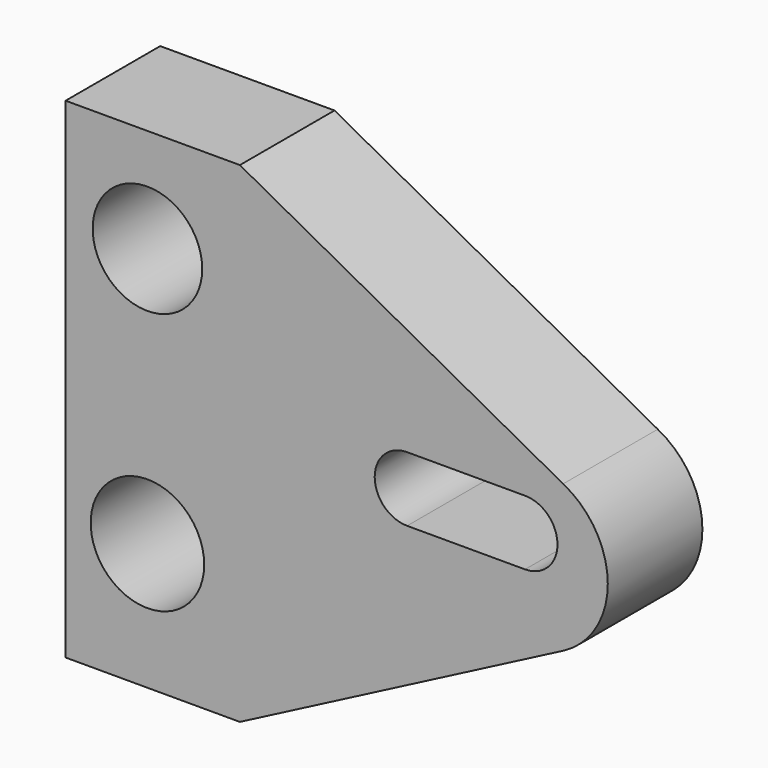
from build123d import *

# Parameters (mm, degrees)
F0_R     = 12.187869
F0_R_2   = 11.765616
F1_DEPTH = 25.4


with BuildPart() as f1:
    # F0 (on Front) → F1 (new body)
    with BuildSketch(Plane.XZ):
        with BuildLine():
            Line((-23.061198, 42.602729), (-60.498182, 42.602729))
            Line((-60.498182, 42.602729), (-60.498182, -62.691823))
            Line((-60.498182, -62.691823), (-23.061198, -62.691823))
            Line((-23.061198, -62.691823), (46.374042, -26.652582))
            ThreePointArc((46.374042, -26.652582), (55.962165, -10.873324), (46.374042, 4.905935))
            Line((46.374042, 4.905935), (-23.061198, 42.602729))
        make_face()
        with Locations((-42.919431, -35.459612)):
            Circle(F0_R, mode=Mode.SUBTRACT)
        with Locations((-42.919431, 20.318234)):
            Circle(F0_R_2, mode=Mode.SUBTRACT)
        with BuildLine():
            ThreePointArc((12.858412, -13.931318), (5.892753, -6.965659), (12.858412, 0))
            Line((12.858412, 0), (37.811656, 0))
            ThreePointArc((37.811656, 0), (45.15222, -6.774407), (38.184072, -13.931318))
            Line((38.184072, -13.931318), (12.858412, -13.931318))
        make_face(mode=Mode.SUBTRACT)
    extrude(amount=F1_DEPTH)


solid = f1.part
